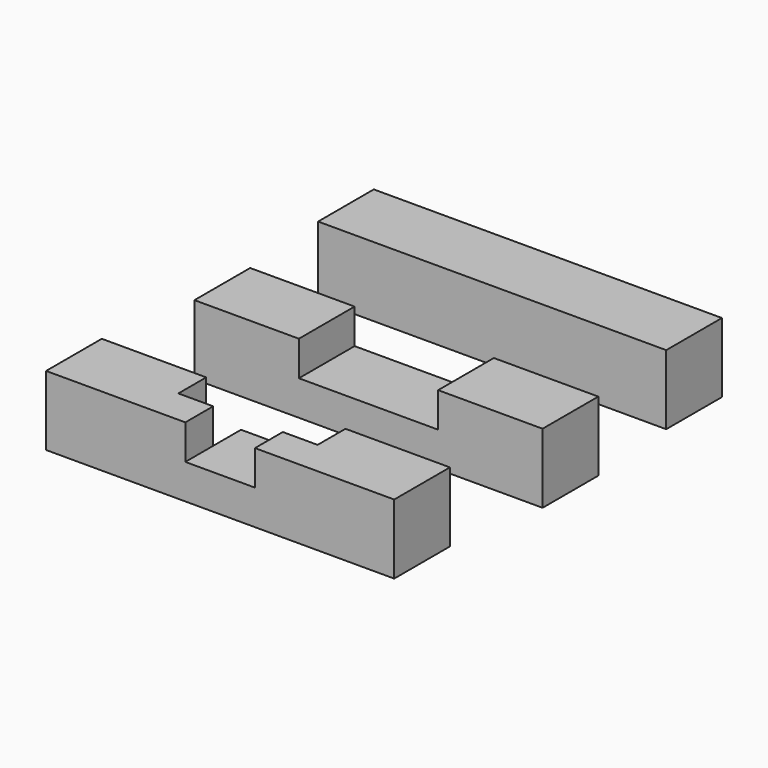
from build123d import *

# Parameters (mm, degrees)
F0_W     = 80
F0_H     = 16
F1_DEPTH = 16
F2_W     = 32
F2_H     = 16
F3_DEPTH = 8
F4_W     = 16
F4_H     = 16
F5_DEPTH = 8
F6_W     = 8
F6_H     = 8
F7_DEPTH = 16
F8_W     = 8
F8_H     = 8
F9_DEPTH = 25


with BuildPart() as f1:
    # F0 (on Top) → F1 (new body)
    with BuildSketch(Plane.XY):
        with Locations((2.75437, 32.549724)):
            Rectangle(F0_W, F0_H)
        with Locations((4.508742, -5.158628)):
            Rectangle(F0_W, F0_H)
        with Locations((0.903399, -43.272236)):
            Rectangle(F0_W, F0_H)
    extrude(amount=F1_DEPTH)

    # F2 (on face) → F3 (cut)
    with BuildSketch(Plane.XY.offset(16)):
        with Locations((4.508742, -5.158628)):
            Rectangle(F2_W, F2_H)
    extrude(amount=-F3_DEPTH, mode=Mode.SUBTRACT)

    # F4 (on face) → F5 (cut)
    with BuildSketch(Plane.XY.offset(16)):
        with Locations((0.903399, -43.272236)):
            Rectangle(F4_W, F4_H)
    extrude(amount=-F5_DEPTH, mode=Mode.SUBTRACT)

    # F6 (on face) → F7 (cut)
    with BuildSketch(Plane.XY.offset(16)):
        with Locations((12.903399, -39.272236)):
            Rectangle(F6_W, F6_H)
    extrude(amount=-F7_DEPTH, mode=Mode.SUBTRACT)

    # F8 (on face) → F9 (cut)
    with BuildSketch(Plane.XY.offset(16)):
        with Locations((-11.096601, -39.272236)):
            Rectangle(F8_W, F8_H)
    extrude(amount=-F9_DEPTH, mode=Mode.SUBTRACT)


solid = f1.part
